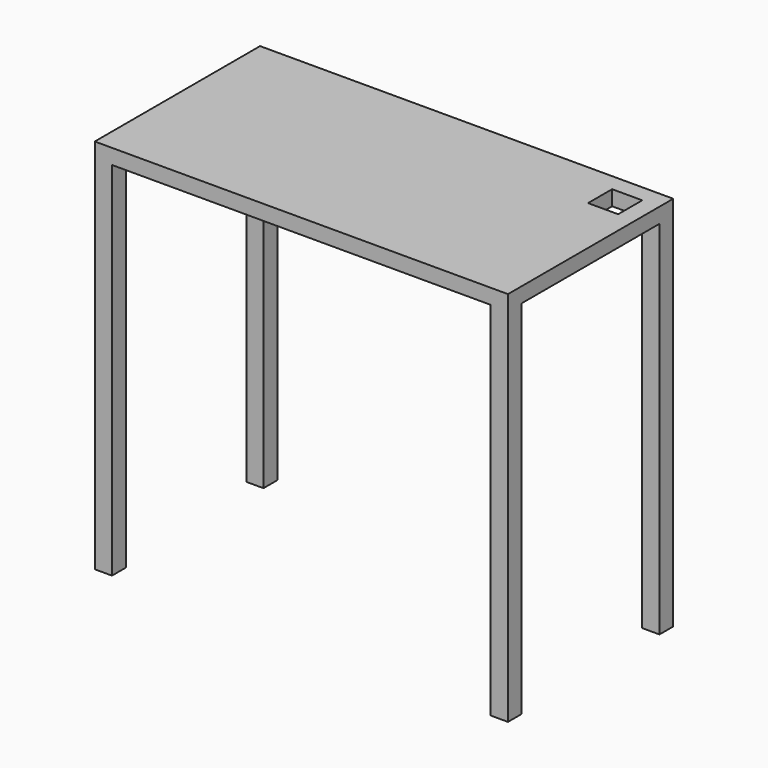
from build123d import *

# Parameters (mm, degrees)
F0_W     = 1219.2
F0_H     = 609.6
F1_DEPTH = 44.45
F2_W     = 88.9
F2_H     = 88.9
F3_DEPTH = 44.451
F4_W     = 50.8
F4_H     = 50.8
F5_DEPTH = 1066.8


with BuildPart() as f1:
    # F0 (on Top) → F1 (new body)
    with BuildSketch(Plane.XY):
        Rectangle(F0_W, F0_H)
    extrude(amount=F1_DEPTH)

    # F2 (on face) → F3 (cut, through all)
    with BuildSketch(Plane.XY.offset(44.45)):
        with Locations((514.35, 209.55)):
            Rectangle(F2_W, F2_H)
    extrude(amount=-F3_DEPTH, mode=Mode.SUBTRACT)

    # F4 (on face) → F5 (join)
    with BuildSketch(Plane(origin=(0, 0, 0), x_dir=(1, 0, 0), z_dir=(0, 0, -1))):
        with Locations((584.2, 279.4)):
            Rectangle(F4_W, F4_H)
        with Locations((-584.2, 279.4)):
            Rectangle(F4_W, F4_H)
        with Locations((-584.2, -279.4)):
            Rectangle(F4_W, F4_H)
        with Locations((584.2, -279.4)):
            Rectangle(F4_W, F4_H)
    extrude(amount=F5_DEPTH)


solid = f1.part
